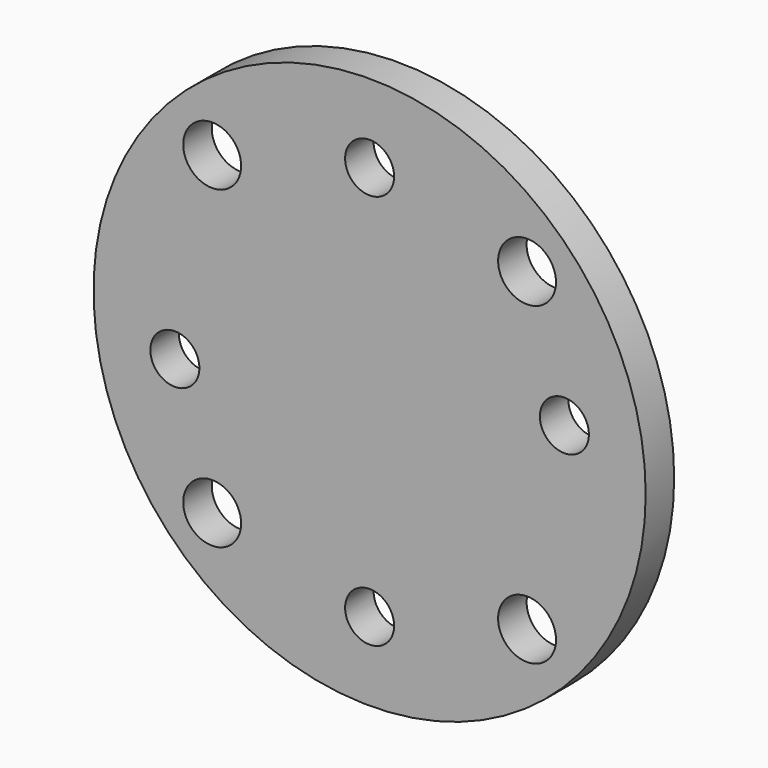
from build123d import *

# Parameters (mm, degrees)
F0_R     = 49.2125
F0_R_2   = 5.159375
F1_DEPTH = 6.35
F3_D     = 8.7376


with BuildPart() as f1:
    # F0 (on Front) → F1 (new body)
    with BuildSketch(Plane.XZ):
        Circle(F0_R)
        with Locations((-28.0633, -28.0633)):
            Circle(F0_R_2, mode=Mode.SUBTRACT)
        with Locations((28.0633, -28.0633)):
            Circle(F0_R_2, mode=Mode.SUBTRACT)
        with Locations((-28.0633, 28.0633)):
            Circle(F0_R_2, mode=Mode.SUBTRACT)
        with Locations((28.0633, 28.0633)):
            Circle(F0_R_2, mode=Mode.SUBTRACT)
    extrude(amount=F1_DEPTH)

    # F3 (through all)
    with Locations(Plane.XZ.offset(6.35)):
        with Locations((0, 35.245303), (34.716293, 6.083617), (0, -35.245303), (-34.716293, -6.083617)):
            Hole(F3_D / 2)


solid = f1.part
